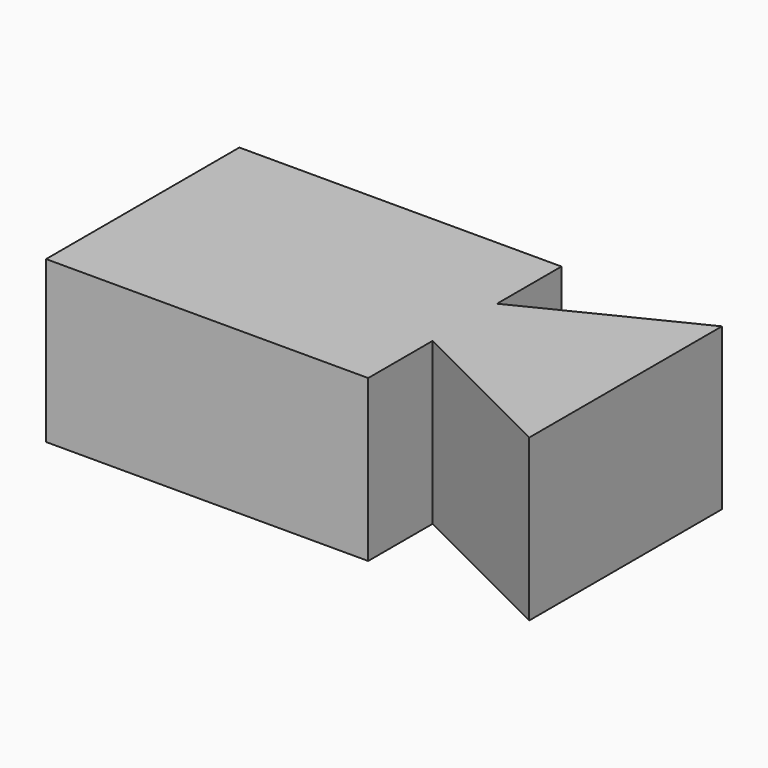
from build123d import *

# Parameters (mm, degrees)
F1_DEPTH = 50.8


with BuildPart() as f1:
    # F0 (on Top) → F1 (new body)
    with BuildSketch(Plane.XY):
        Polygon((-101.6, 0), (0, 0), (0, 25.4), (0, 50.8), (0, 76.2), (-101.6, 76.2), align=None)
        Polygon((0, 50.8), (0, 25.4), (50.8, 0), (50.8, 75.968106), align=None)
    extrude(amount=-F1_DEPTH)


solid = f1.part
